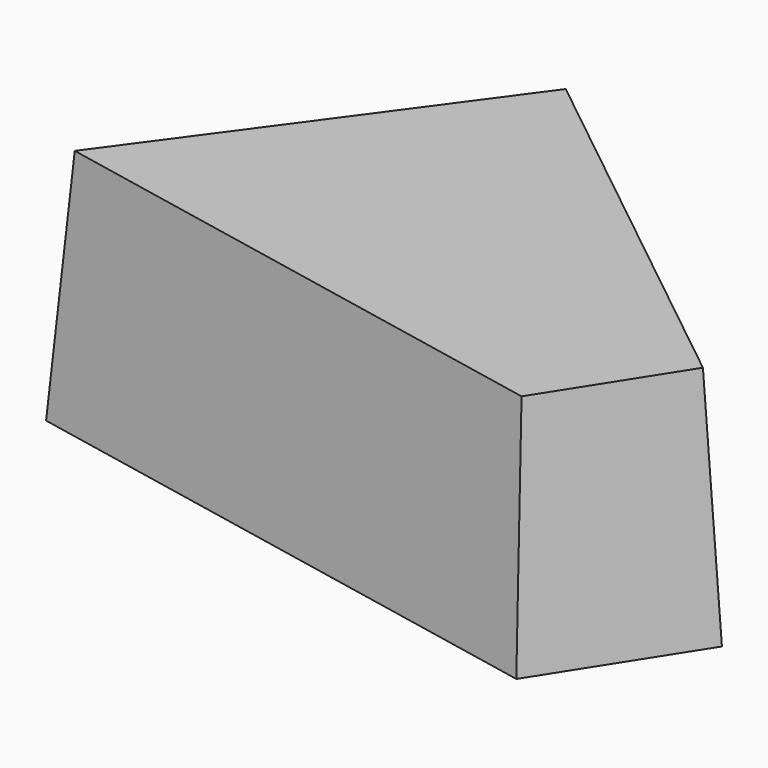
from build123d import *

# Parameters (mm, degrees)
F1_DEPTH = 25.4
F1_TAPER = 3


with BuildPart() as f1:
    # F0 (on Top) → F1 (new body)
    with BuildSketch(Plane.XY):
        Polygon((-53.9188948608, 34.5809438741), (-80.6179717183, -2.0546864253), (-21.6670059705, -13.8295747828), (-12.0761672079, 1.2555650258), align=None)
    extrude(amount=F1_DEPTH, taper=F1_TAPER)


solid = f1.part
